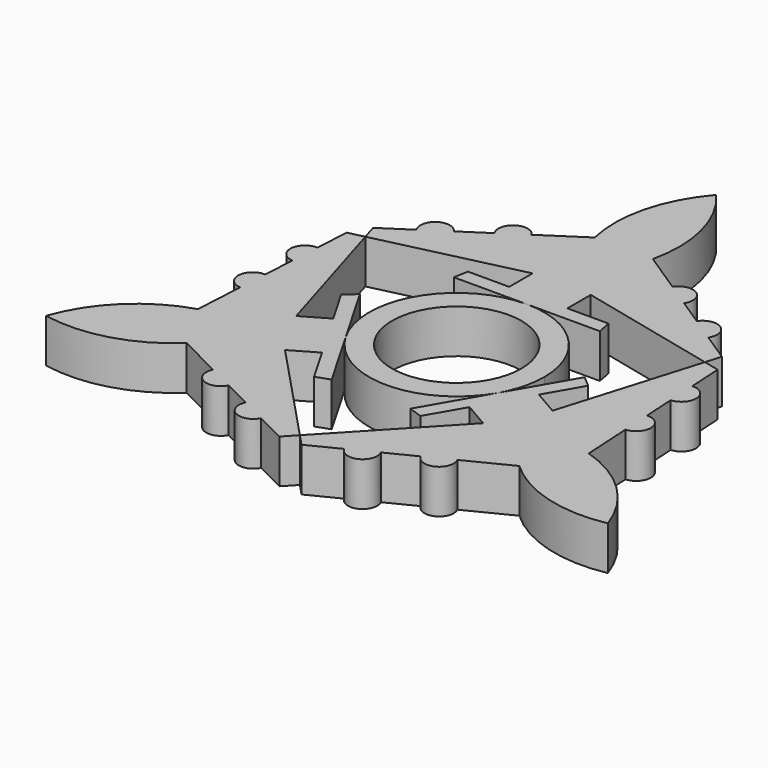
from build123d import *

# Parameters (mm, degrees)
F0_R     = 11.25
F1_DEPTH = 7.62


with BuildPart() as f1:
    # F0 (on Top) → F1 (new body)
    with BuildSketch(Plane.XY):
        with BuildLine():
            ThreePointArc((13.198227, -7.62), (14.72071, -3.944402), (15.24, 0))
            ThreePointArc((15.24, 0), (10.776307, 10.776307), (0, 15.24))
            ThreePointArc((0, 15.24), (-13.198227, 7.62), (-13.198227, -7.62))
            ThreePointArc((-13.198227, -7.62), (0, -15.24), (13.198227, -7.62))
        make_face()
        Circle(F0_R, mode=Mode.SUBTRACT)
        with BuildLine():
            Line((19.548227, 3.378523), (13.198227, -7.62))
            Line((13.198227, -7.62), (6.848227, -18.618523))
            Line((6.848227, -18.618523), (9.240887, -19.471035))
            Line((9.240887, -19.471035), (12.832269, -13.250579))
            Line((12.832269, -13.250579), (17.231679, -15.790579))
            Line((17.231679, -15.790579), (0, -34.096789))
            Line((0, -34.096789), (1.926831, -36.143774))
            Line((1.926831, -36.143774), (7.227219, -33.47426))
            Line((7.227219, -33.47426), (11.764275, -31.189194))
            Line((11.764275, -31.189194), (16.712822, -28.696884))
            Line((16.712822, -28.696884), (21.249878, -26.411818))
            Line((21.249878, -26.411818), (28.929219, -22.544157))
            ThreePointArc((28.929219, -22.544157), (38.214118, -27.762026), (48.855442, -28.206702))
            ThreePointArc((48.855442, -28.206702), (43.149679, -19.213384), (33.988422, -13.78136))
            Line((33.988422, -13.78136), (33.498245, -5.197025))
            Line((33.498245, -5.197025), (33.208641, -0.125287))
            Line((33.208641, -0.125287), (32.892772, 5.406436))
            Line((32.892772, 5.406436), (32.603169, 10.478174))
            Line((32.603169, 10.478174), (32.264842, 16.403202))
            Line((32.264842, 16.403202), (29.528686, 17.048395))
            Line((29.528686, 17.048395), (22.290881, -7.027782))
            Line((22.290881, -7.027782), (17.891472, -4.487782))
            Line((17.891472, -4.487782), (21.482855, 1.732674))
            Line((21.482855, 1.732674), (19.548227, 3.378523))
        make_face()
        with BuildLine():
            Line((-12.7, 15.24), (0, 15.24))
            Line((0, 15.24), (12.7, 15.24))
            Line((12.7, 15.24), (12.241967, 17.738361))
            Line((12.241967, 17.738361), (5.059203, 17.738361))
            Line((5.059203, 17.738361), (5.059203, 22.818361))
            Line((5.059203, 22.818361), (29.528686, 17.048395))
            Line((29.528686, 17.048395), (30.338011, 19.740572))
            Line((30.338011, 19.740572), (25.37595, 22.996085))
            Line((25.37595, 22.996085), (21.128497, 25.782758))
            Line((21.128497, 25.782758), (16.495819, 28.82217))
            Line((16.495819, 28.82217), (12.248366, 31.608843))
            Line((12.248366, 31.608843), (5.059203, 36.325517))
            ThreePointArc((5.059203, 36.325517), (4.935561, 46.97541), (0, 56.413405))
            ThreePointArc((0, 56.413405), (-4.935561, 46.97541), (-5.059203, 36.325517))
            Line((-5.059203, 36.325517), (-12.248366, 31.608843))
            Line((-12.248366, 31.608843), (-16.495819, 28.82217))
            Line((-16.495819, 28.82217), (-21.128497, 25.782758))
            Line((-21.128497, 25.782758), (-25.37595, 22.996085))
            Line((-25.37595, 22.996085), (-30.338011, 19.740572))
            Line((-30.338011, 19.740572), (-29.528686, 17.048395))
            Line((-29.528686, 17.048395), (-5.059203, 22.818361))
            Line((-5.059203, 22.818361), (-5.059203, 17.738361))
            Line((-5.059203, 17.738361), (-12.241967, 17.738361))
            Line((-12.241967, 17.738361), (-12.7, 15.24))
        make_face()
        with BuildLine():
            Line((-6.848227, -18.618523), (-13.198227, -7.62))
            Line((-13.198227, -7.62), (-19.548227, 3.378523))
            Line((-19.548227, 3.378523), (-21.482855, 1.732674))
            Line((-21.482855, 1.732674), (-17.891472, -4.487782))
            Line((-17.891472, -4.487782), (-22.290881, -7.027782))
            Line((-22.290881, -7.027782), (-29.528686, 17.048395))
            Line((-29.528686, 17.048395), (-32.264842, 16.403202))
            Line((-32.264842, 16.403202), (-32.603169, 10.478174))
            Line((-32.603169, 10.478174), (-32.892772, 5.406436))
            Line((-32.892772, 5.406436), (-33.208641, -0.125287))
            Line((-33.208641, -0.125287), (-33.498245, -5.197025))
            Line((-33.498245, -5.197025), (-33.988422, -13.78136))
            ThreePointArc((-33.988422, -13.78136), (-43.149679, -19.213384), (-48.855442, -28.206702))
            ThreePointArc((-48.855442, -28.206702), (-38.214118, -27.762026), (-28.929219, -22.544157))
            Line((-28.929219, -22.544157), (-21.249878, -26.411818))
            Line((-21.249878, -26.411818), (-16.712822, -28.696884))
            Line((-16.712822, -28.696884), (-11.764275, -31.189194))
            Line((-11.764275, -31.189194), (-7.227219, -33.47426))
            Line((-7.227219, -33.47426), (-1.926831, -36.143774))
            Line((-1.926831, -36.143774), (0, -34.096789))
            Line((0, -34.096789), (-17.231679, -15.790579))
            Line((-17.231679, -15.790579), (-12.832269, -13.250579))
            Line((-12.832269, -13.250579), (-9.240887, -19.471035))
            Line((-9.240887, -19.471035), (-6.848227, -18.618523))
        make_face()
        with BuildLine():
            Line((-33.498245, -5.197025), (-33.208641, -0.125287))
            ThreePointArc((-33.208641, -0.125287), (-35.889312, -2.516354), (-33.498245, -5.197025))
        make_face()
        with BuildLine():
            Line((-32.892772, 5.406436), (-32.603169, 10.478174))
            ThreePointArc((-32.603169, 10.478174), (-35.28384, 8.087107), (-32.892772, 5.406436))
        make_face()
        with BuildLine():
            ThreePointArc((-21.128497, 25.782758), (-24.64556, 26.513148), (-25.37595, 22.996085))
            Line((-25.37595, 22.996085), (-21.128497, 25.782758))
        make_face()
        with BuildLine():
            ThreePointArc((-12.248366, 31.608843), (-15.765429, 32.339233), (-16.495819, 28.82217))
            Line((-16.495819, 28.82217), (-12.248366, 31.608843))
        make_face()
        with BuildLine():
            Line((12.248366, 31.608843), (16.495819, 28.82217))
            ThreePointArc((16.495819, 28.82217), (15.765429, 32.339233), (12.248366, 31.608843))
        make_face()
        with BuildLine():
            Line((21.128497, 25.782758), (25.37595, 22.996085))
            ThreePointArc((25.37595, 22.996085), (24.64556, 26.513148), (21.128497, 25.782758))
        make_face()
        with BuildLine():
            ThreePointArc((32.892772, 5.406436), (35.28384, 8.087107), (32.603169, 10.478174))
            Line((32.603169, 10.478174), (32.892772, 5.406436))
        make_face()
        with BuildLine():
            ThreePointArc((33.498245, -5.197025), (35.889312, -2.516354), (33.208641, -0.125287))
            Line((33.208641, -0.125287), (33.498245, -5.197025))
        make_face()
        with BuildLine():
            Line((11.764275, -31.189194), (7.227219, -33.47426))
            ThreePointArc((7.227219, -33.47426), (10.63828, -34.600255), (11.764275, -31.189194))
        make_face()
        with BuildLine():
            Line((21.249878, -26.411818), (16.712822, -28.696884))
            ThreePointArc((16.712822, -28.696884), (20.123883, -29.822879), (21.249878, -26.411818))
        make_face()
        with BuildLine():
            ThreePointArc((-21.249878, -26.411818), (-20.123883, -29.822879), (-16.712822, -28.696884))
            Line((-16.712822, -28.696884), (-21.249878, -26.411818))
        make_face()
        with BuildLine():
            ThreePointArc((-11.764275, -31.189194), (-10.63828, -34.600255), (-7.227219, -33.47426))
            Line((-7.227219, -33.47426), (-11.764275, -31.189194))
        make_face()
    extrude(amount=F1_DEPTH)


solid = f1.part
